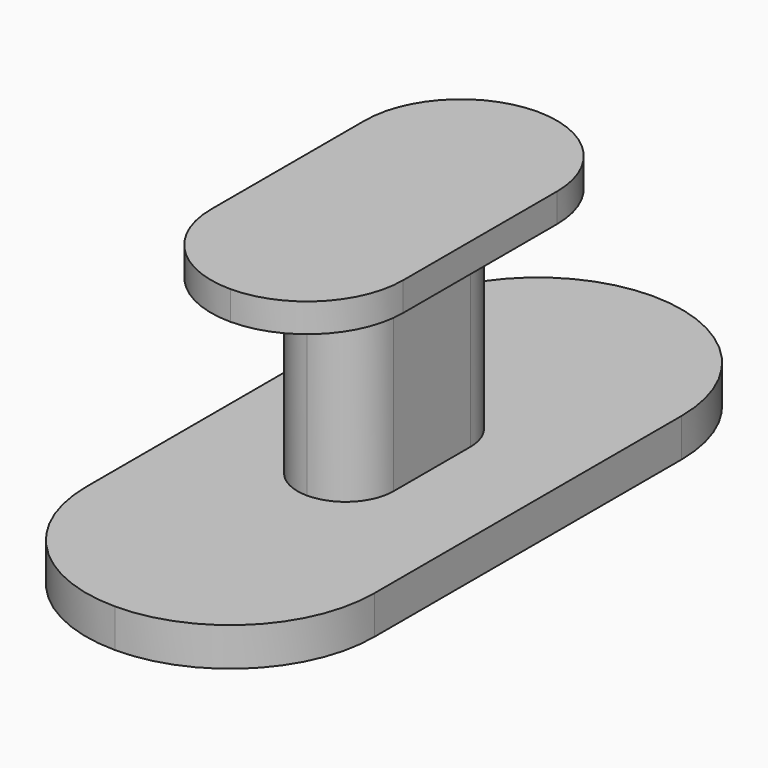
from build123d import *

# Parameters (mm, degrees)
F1_DEPTH = 0.8
F3_DEPTH = 4
F5_DEPTH = 0.6


with BuildPart() as f1:
    # F0 (on Top) → F1 (new body)
    with BuildSketch(Plane.XY):
        with BuildLine():
            ThreePointArc((0, 7), (-2.12132, 6.12132), (-3, 4))
            Line((-3, 4), (-3, -4))
            ThreePointArc((-3, -4), (-2.12132, -6.12132), (0, -7))
            ThreePointArc((0, -7), (2.12132, -6.12132), (3, -4))
            Line((3, -4), (3, 4))
            ThreePointArc((3, 4), (2.12132, 6.12132), (0, 7))
        make_face()
    extrude(amount=F1_DEPTH)

    # F2 (on face) → F3 (join)
    with BuildSketch(Plane.XY.offset(0.8)):
        with BuildLine():
            ThreePointArc((0, 2), (-0.707107, 1.707107), (-1, 1))
            Line((-1, 1), (-1, -1))
            ThreePointArc((-1, -1), (-0.707107, -1.707107), (0, -2))
            ThreePointArc((0, -2), (0.707107, -1.707107), (1, -1))
            Line((1, -1), (1, 1))
            ThreePointArc((1, 1), (0.707107, 1.707107), (0, 2))
        make_face()
    extrude(amount=F3_DEPTH)

    # F4 (on face) → F5 (join)
    with BuildSketch(Plane.XY.offset(4.8)):
        with BuildLine():
            ThreePointArc((0, 4), (-1.414214, 3.414214), (-2, 2))
            Line((-2, 2), (-2, -2))
            ThreePointArc((-2, -2), (-1.414214, -3.414214), (0, -4))
            ThreePointArc((0, -4), (1.414214, -3.414214), (2, -2))
            Line((2, -2), (2, 2))
            ThreePointArc((2, 2), (1.414214, 3.414214), (0, 4))
        make_face()
    extrude(amount=F5_DEPTH)


solid = f1.part
